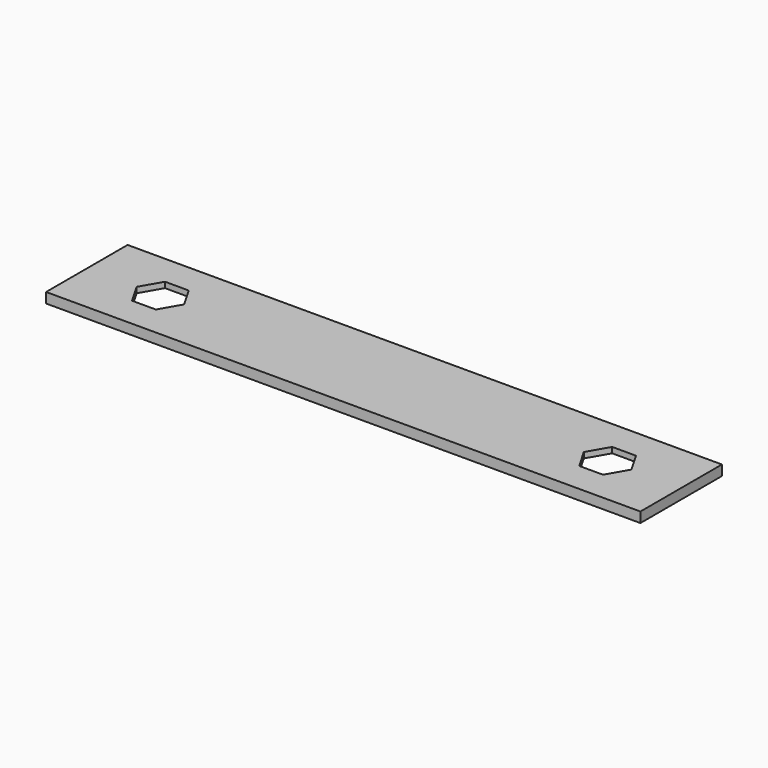
from build123d import *

# Parameters (mm, degrees)
F0_W     = 105
F0_H     = 18
F0_W_2   = 99.3
F0_H_2   = 12.3
F1_DEPTH = 1.8
F2_DEPTH = 0.8


with BuildPart() as f1:
    # F0 (on Top) → F1 (new body)
    with BuildSketch(Plane.XY):
        Rectangle(F0_W, F0_H)
        Rectangle(F0_W_2, F0_H_2, mode=Mode.SUBTRACT)
        Rectangle(F0_W_2, F0_H_2)
        Polygon((-41.6, -3.6373066959), (-43.7, 0), (-41.6, 3.6373066959), (-37.4, 3.6373066959), (-35.3, 0), (-37.4, -3.6373066959), align=None, mode=Mode.SUBTRACT)
        Polygon((37.4, -3.6373066959), (35.3, 0), (37.4, 3.6373066959), (41.6, 3.6373066959), (43.7, 0), (41.6, -3.6373066959), align=None, mode=Mode.SUBTRACT)
    extrude(amount=F1_DEPTH)

    # F0 (on Top) → F2 (cut)
    with BuildSketch(Plane.XY):
        Rectangle(F0_W_2, F0_H_2)
        Polygon((-41.6, -3.6373066959), (-43.7, 0), (-41.6, 3.6373066959), (-37.4, 3.6373066959), (-35.3, 0), (-37.4, -3.6373066959), align=None, mode=Mode.SUBTRACT)
        Polygon((37.4, -3.6373066959), (35.3, 0), (37.4, 3.6373066959), (41.6, 3.6373066959), (43.7, 0), (41.6, -3.6373066959), align=None, mode=Mode.SUBTRACT)
    extrude(amount=F2_DEPTH, mode=Mode.SUBTRACT)


solid = f1.part
